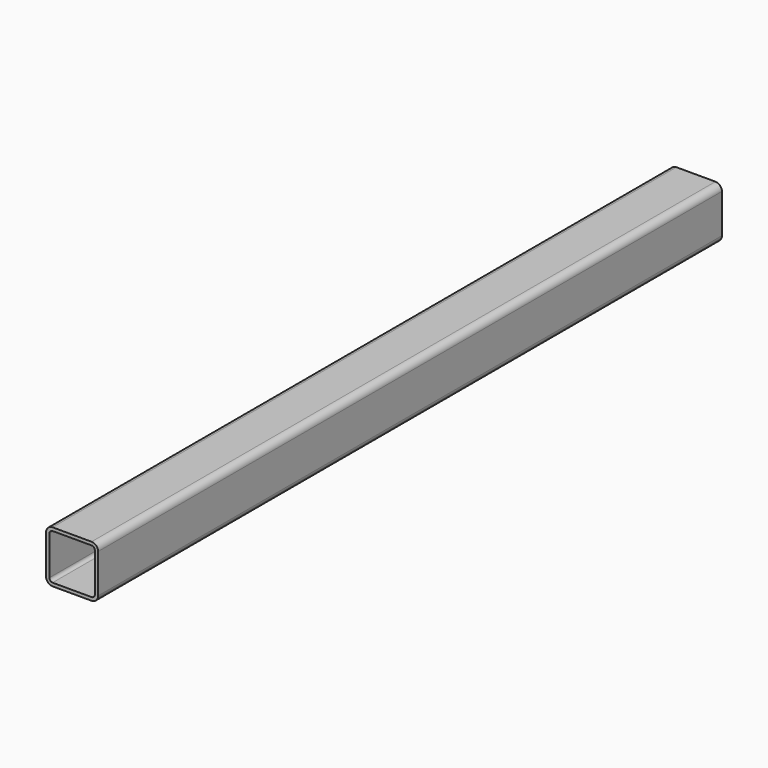
from build123d import *

# Parameters (mm, degrees)
F1_DEPTH = 762


with BuildPart() as f1:
    # F0 (on Front) → F1 (new body, symmetric)
    with BuildSketch(Plane.XZ):
        with BuildLine():
            Line((-38.1, -50.8), (38.1, -50.8))
            ThreePointArc((38.1, -50.8), (47.080256, -47.080256), (50.8, -38.1))
            Line((50.8, -38.1), (50.8, 38.1))
            ThreePointArc((50.8, 38.1), (47.080256, 47.080256), (38.1, 50.8))
            Line((38.1, 50.8), (-38.1, 50.8))
            ThreePointArc((-38.1, 50.8), (-47.080256, 47.080256), (-50.8, 38.1))
            Line((-50.8, 38.1), (-50.8, -38.1))
            ThreePointArc((-50.8, -38.1), (-47.080256, -47.080256), (-38.1, -50.8))
        make_face()
        with BuildLine():
            ThreePointArc((44.45, -38.1), (42.590128, -42.590128), (38.1, -44.45))
            Line((38.1, -44.45), (-38.1, -44.45))
            ThreePointArc((-38.1, -44.45), (-42.590128, -42.590128), (-44.45, -38.1))
            Line((-44.45, -38.1), (-44.45, 38.1))
            ThreePointArc((-44.45, 38.1), (-42.590128, 42.590128), (-38.1, 44.45))
            Line((-38.1, 44.45), (38.1, 44.45))
            ThreePointArc((38.1, 44.45), (42.590128, 42.590128), (44.45, 38.1))
            Line((44.45, 38.1), (44.45, -38.1))
        make_face(mode=Mode.SUBTRACT)
    extrude(amount=F1_DEPTH, both=True)


solid = f1.part
